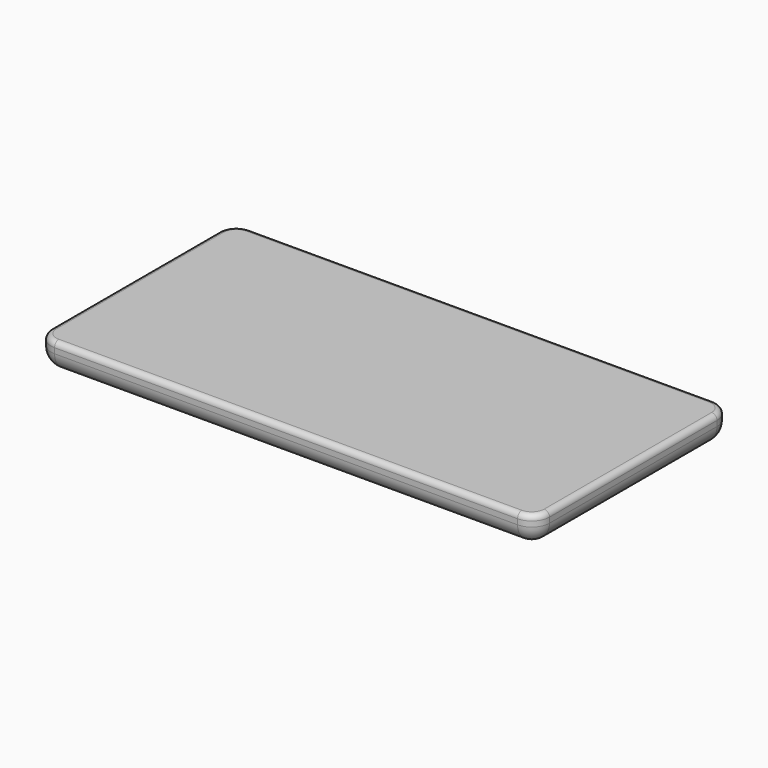
from build123d import *

# Parameters (mm, degrees)
F1_DEPTH = 8
F2_R     = 1.5
F3_R     = 5


with BuildPart() as f1:
    # F0 (on Top) → F1 (new body)
    with BuildSketch(Plane.XY):
        with BuildLine():
            Line((65.2941119671, 34.5224887133), (-65.2941119671, 34.5224887133))
            ThreePointArc((-65.2941119671, 34.5224887133), (-68.829645873, 33.0580226192), (-70.2941119671, 29.5224887133))
            Line((-70.2941119671, 29.5224887133), (-70.2941119671, -29.5224887133))
            ThreePointArc((-70.2941119671, -29.5224887133), (-68.829645873, -33.0580226192), (-65.2941119671, -34.5224887133))
            Line((-65.2941119671, -34.5224887133), (65.2941119671, -34.5224887133))
            ThreePointArc((65.2941119671, -34.5224887133), (68.829645873, -33.0580226192), (70.2941119671, -29.5224887133))
            Line((70.2941119671, -29.5224887133), (70.2941119671, 29.5224887133))
            ThreePointArc((70.2941119671, 29.5224887133), (68.829645873, 33.0580226192), (65.2941119671, 34.5224887133))
        make_face()
    extrude(amount=F1_DEPTH)

    # F2
    f2_edges = [f1.edges().sort_by_distance(p)[0] for p in [
        (0, 34.522489, 8),
        (-68.829646, 33.058023, 8),
        (-70.294112, 0, 8),
        (-68.829646, -33.058023, 8),
        (0, -34.522489, 8),
        (68.829646, -33.058023, 8),
        (70.294112, 0, 8),
        (68.829646, 33.058023, 8),
    ]]
    fillet(f2_edges, radius=F2_R)

    # F3
    f3_edges = [f1.edges().sort_by_distance(p)[0] for p in [
        (0, 34.522489, 0),
        (-68.829646, 33.058023, 0),
        (-70.294112, 0, 0),
        (-68.829646, -33.058023, 0),
        (0, -34.522489, 0),
        (68.829646, -33.058023, 0),
        (70.294112, 0, 0),
        (68.829646, 33.058023, 0),
    ]]
    fillet(f3_edges, radius=F3_R)


solid = f1.part
